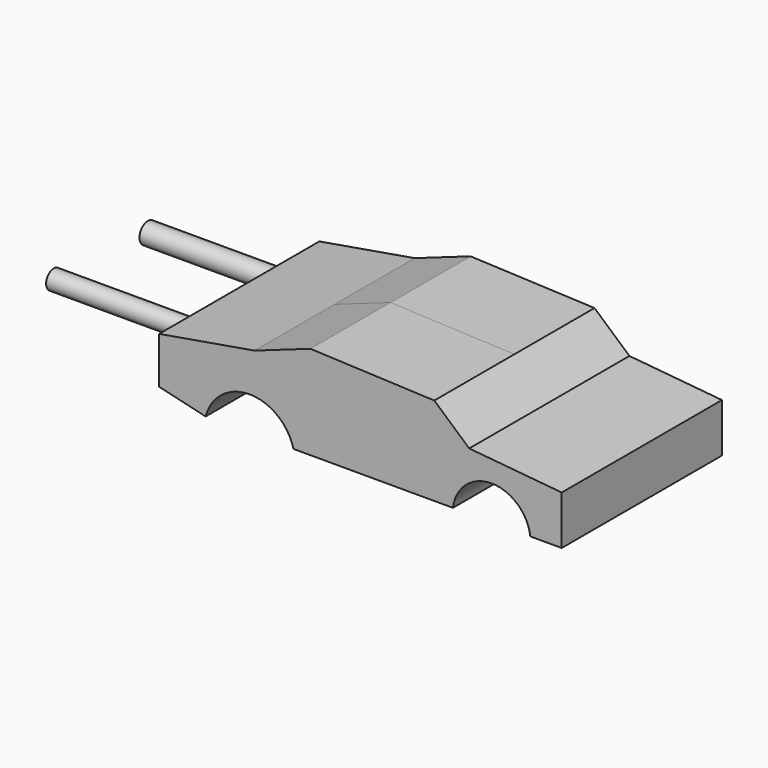
from build123d import *

# Parameters (mm, degrees)
F1_DEPTH = 25.4
F2_DEPTH = 25.4
F3_R     = 2.651253
F3_R_2   = 2.425196
F4_DEPTH = 36.576


with BuildPart() as f1:
    # F0 (on Front) → F1 (new body)
    with BuildSketch(Plane.XZ):
        with BuildLine():
            ThreePointArc((-116.245158, 5.529864), (-105.10182, 14.113523), (-93.958482, 5.529864))
            Line((-93.958482, 5.529864), (-53.517766, 5.529864))
            ThreePointArc((-53.517766, 5.529864), (-43.702776, 14.186285), (-33.887785, 5.529864))
            Line((-33.887785, 5.529864), (-25.917718, 5.529864))
            Line((-25.917718, 5.529864), (-25.917718, 17.927749))
            Line((-25.917718, 17.927749), (-49.385142, 20.141656))
            Line((-49.385142, 20.141656), (-58.240771, 27.96413))
            Line((-58.240771, 27.96413), (-89.678265, 29.292475))
            Line((-89.678265, 29.292475), (-103.847273, 24.274284))
            Line((-103.847273, 24.274284), (-128.052667, 20.141656))
            Line((-128.052667, 20.141656), (-128.052667, 8.334147))
            Line((-128.052667, 8.334147), (-116.245158, 5.529864))
        make_face()
    extrude(amount=F1_DEPTH)

    # F1_face (on face) → F2 (join)
    with BuildSketch(Plane(origin=(-78.672809, 0, 16.414662), x_dir=(1, 0, 0), z_dir=(0, 1, 0))):
        with BuildLine():
            ThreePointArc((-15.285673, 10.884798), (-26.429011, 2.301139), (-37.572349, 10.884798))
            Line((-37.572349, 10.884798), (-49.379858, 8.080515))
            Line((-49.379858, 8.080515), (-49.379858, -3.726994))
            Line((-49.379858, -3.726994), (-25.174464, -7.859622))
            Line((-25.174464, -7.859622), (-11.005456, -12.877814))
            Line((-11.005456, -12.877814), (20.432038, -11.549468))
            Line((20.432038, -11.549468), (29.287667, -3.726994))
            Line((29.287667, -3.726994), (52.755091, -1.513087))
            Line((52.755091, -1.513087), (52.755091, 10.884798))
            Line((52.755091, 10.884798), (44.785024, 10.884798))
            ThreePointArc((44.785024, 10.884798), (34.970033, 2.228377), (25.155043, 10.884798))
            Line((25.155043, 10.884798), (-15.285673, 10.884798))
        make_face()
    extrude(amount=F2_DEPTH)

    # F3 (on face) → F4 (join)
    with BuildSketch(Plane(origin=(-128.052667, 0, 0), x_dir=(0, -1, 0), z_dir=(-1, 0, 0))):
        with Locations((-16.749868, 13.685345)):
            Circle(F3_R)
        with Locations((13.091599, 15.441071)):
            Circle(F3_R_2)
    extrude(amount=F4_DEPTH)


solid = f1.part
